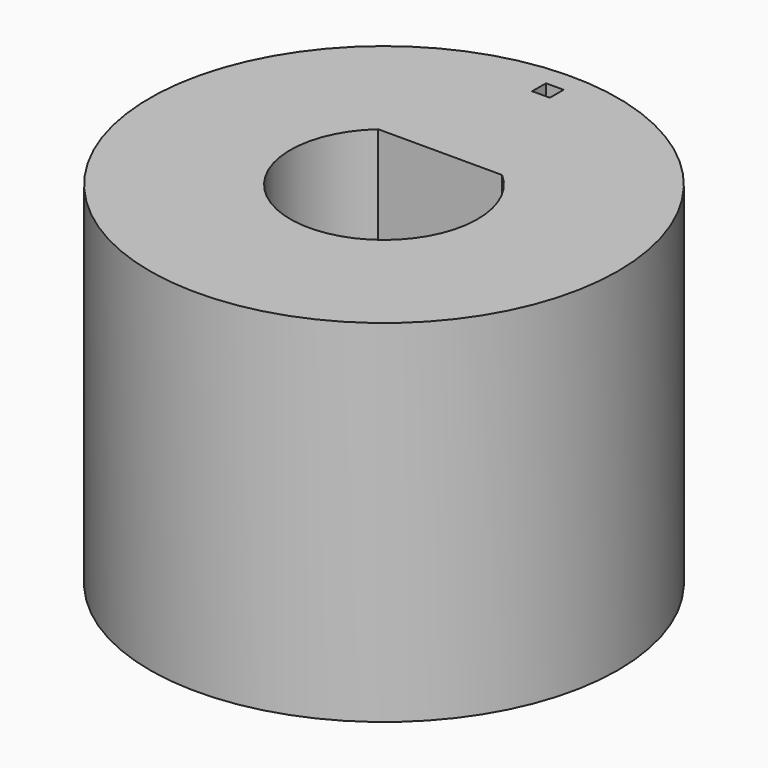
from build123d import *

# Parameters (mm, degrees)
F0_R     = 10
F1_DEPTH = 15
F2_W     = 0.753796
F2_H     = 0.737758
F3_DEPTH = 1


with BuildPart() as f1:
    # F0 (on Top) → F1 (new body)
    with BuildSketch(Plane.XY):
        Circle(F0_R)
        with BuildLine():
            ThreePointArc((2.645751, 3), (0, -4), (-2.645751, 3))
            Line((-2.645751, 3), (2.645751, 3))
        make_face(mode=Mode.SUBTRACT)
    extrude(amount=F1_DEPTH)

    # F2 (on face) → F3 (cut)
    with BuildSketch(Plane.XY.offset(15)):
        with Locations((0.02604, 8.718567)):
            Rectangle(F2_W, F2_H)
    extrude(amount=-F3_DEPTH, mode=Mode.SUBTRACT)


solid = f1.part
